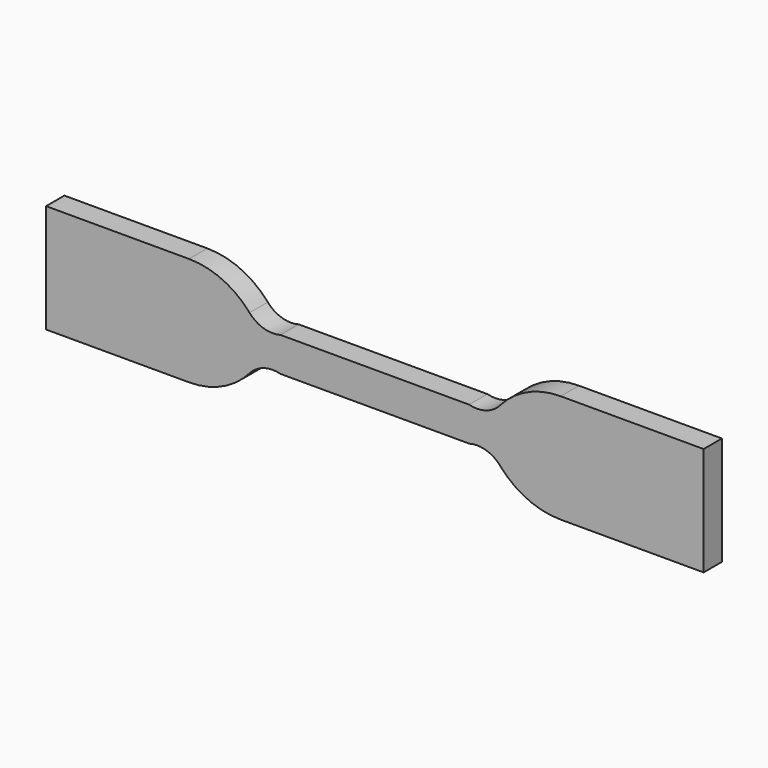
from build123d import *

# Parameters (mm, degrees)
F1_DEPTH = 2
F2_DEPTH = 2


with BuildPart() as f1:
    # F0 (on Front) → F1 (new body, symmetric)
    with BuildSketch(Plane.XZ):
        with BuildLine():
            Line((16.5, 3), (0, 3))
            Line((0, 3), (-16.5, 3))
            ThreePointArc((-16.5, 3), (-19.446852, 3.054649), (-21.916025, 4.664031))
            ThreePointArc((-21.916025, 4.664031), (-26.681772, 8.233743), (-32.5, 9.5))
            Line((-32.5, 9.5), (-57.5, 9.5))
            Line((-57.5, 9.5), (-57.5, -9.5))
            Line((-57.5, -9.5), (-32.5, -9.5))
            ThreePointArc((-32.5, -9.5), (-26.681772, -8.233743), (-21.916025, -4.664031))
            ThreePointArc((-21.916025, -4.664031), (-19.446852, -3.054649), (-16.5, -3))
            Line((-16.5, -3), (0, -3))
            Line((0, -3), (16.5, -3))
            ThreePointArc((16.5, -3), (19.446852, -3.054649), (21.916025, -4.664031))
            ThreePointArc((21.916025, -4.664031), (26.681772, -8.233743), (32.5, -9.5))
            Line((32.5, -9.5), (57.5, -9.5))
            Line((57.5, -9.5), (57.5, 9.5))
            Line((57.5, 9.5), (32.5, 9.5))
            ThreePointArc((32.5, 9.5), (26.681772, 8.233743), (21.916025, 4.664031))
            ThreePointArc((21.916025, 4.664031), (19.446852, 3.054649), (16.5, 3))
        make_face()
    extrude(amount=F1_DEPTH, both=True)

    # F0 (on Front) → F2 (join, symmetric)
    with BuildSketch(Plane.XZ):
        with BuildLine():
            Line((16.5, 3), (0, 3))
            Line((0, 3), (-16.5, 3))
            ThreePointArc((-16.5, 3), (-19.446852, 3.054649), (-21.916025, 4.664031))
            ThreePointArc((-21.916025, 4.664031), (-26.681772, 8.233743), (-32.5, 9.5))
            Line((-32.5, 9.5), (-57.5, 9.5))
            Line((-57.5, 9.5), (-57.5, -9.5))
            Line((-57.5, -9.5), (-32.5, -9.5))
            ThreePointArc((-32.5, -9.5), (-26.681772, -8.233743), (-21.916025, -4.664031))
            ThreePointArc((-21.916025, -4.664031), (-19.446852, -3.054649), (-16.5, -3))
            Line((-16.5, -3), (0, -3))
            Line((0, -3), (16.5, -3))
            ThreePointArc((16.5, -3), (19.446852, -3.054649), (21.916025, -4.664031))
            ThreePointArc((21.916025, -4.664031), (26.681772, -8.233743), (32.5, -9.5))
            Line((32.5, -9.5), (57.5, -9.5))
            Line((57.5, -9.5), (57.5, 9.5))
            Line((57.5, 9.5), (32.5, 9.5))
            ThreePointArc((32.5, 9.5), (26.681772, 8.233743), (21.916025, 4.664031))
            ThreePointArc((21.916025, 4.664031), (19.446852, 3.054649), (16.5, 3))
        make_face()
    extrude(amount=F2_DEPTH, both=True)


solid = f1.part
